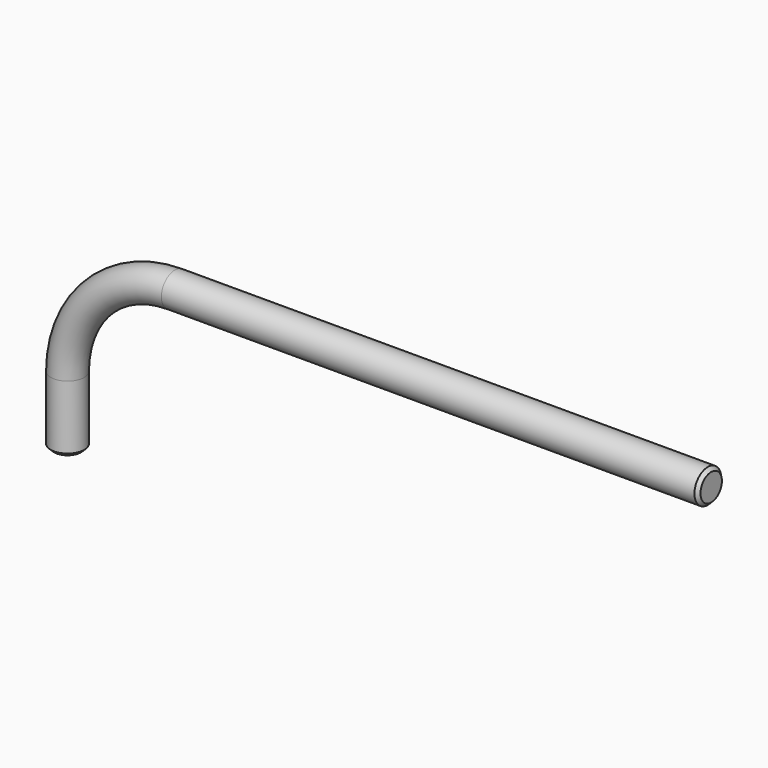
from build123d import *

# Parameters (mm, degrees)
F1_R    = 2.5
F3_SIZE = 0.5


with BuildPart() as f2:
    # F2: sweep along a path in F0
    with BuildLine(Plane.XZ) as f2_path:
        Line((0, 0), (-80, 0))
        ThreePointArc((-80, 0), (-91.313708499, -4.686291501), (-96, -16))
        Line((-96, -16), (-96, -26))
    # F1 (on Right) → F2 (sweep)
    with BuildSketch(Plane.YZ):
        Circle(F1_R)
    sweep(path=f2_path.line)

    # F3
    f3_edges = [f2.edges().sort_by_distance(p)[0] for p in [
        (-96, -2.5, -26),
        (0, -2.5, 0),
    ]]
    chamfer(f3_edges, length=F3_SIZE)


solid = f2.part
